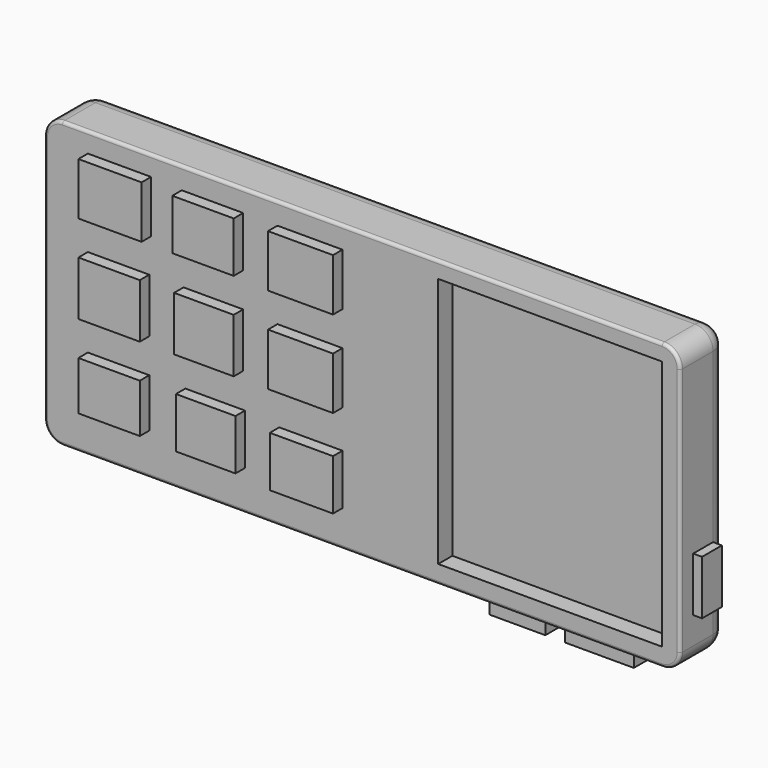
from build123d import *

# Parameters (mm, degrees)
F0_W      = 107.4943505228
F0_H      = 48.250304535
F1_DEPTH  = 10
F2_W      = 37.8673281521
F2_H      = 42.4480531365
F3_DEPTH  = 3
F4_W      = 10.9937405214
F4_H      = 8.8560692966
F5_DEPTH  = 2
F6_W      = 10.9937405214
F6_H      = 8.8560692966
F7_DEPTH  = 2
F8_W      = 10.6883589178
F8_H      = 8.5506872274
F9_DEPTH  = 2
F10_W     = 10.382976383
F10_H     = 8.5506876931
F11_DEPTH = 2
F12_W     = 10.0775957108
F12_H     = 9.1614499688
F13_DEPTH = 2
F14_W     = 10.0775957108
F14_H     = 8.5506867617
F15_DEPTH = 2
F16_W     = 10.6883570552
F16_H     = 8.8560683653
F17_DEPTH = 2
F18_W     = 10.382976383
F18_H     = 9.1614499688
F19_DEPTH = 2
F20_W     = 10.382976383
F20_H     = 8.2453051582
F21_DEPTH = 2
F22_R     = 3.048
F23_R     = 3.048
F24_R     = 3.048
F25_R     = 3.048
F26_R     = 3.048
F27_R     = 0.508
F28_W     = 6.444
F28_H     = 12.8260310739
F29_DEPTH = 7
F30_W     = 11.6044990718
F30_H     = 3.461962243
F31_DEPTH = 2
F32_W     = 9.4668287784
F32_H     = 3.461962243
F33_DEPTH = 2
F34_W     = 4.2035634727
F34_H     = 9.1614509001
F35_DEPTH = 1.5


with BuildPart() as f1:
    # F0 (on Front) → F1 (new body)
    with BuildSketch(Plane.XZ):
        with Locations((3.3591967076, 3.0538169667)):
            Rectangle(F0_W, F0_H)
    extrude(amount=-F1_DEPTH)

    # F2 (on face) → F3 (cut)
    with BuildSketch(Plane.XZ):
        with Locations((35.1188937202, 3.2065073028)):
            Rectangle(F2_W, F2_H)
    extrude(amount=-F3_DEPTH, mode=Mode.SUBTRACT)

    # F4 (on face) → F5 (join)
    with BuildSketch(Plane.XZ):
        with Locations((-5.4968702607, 19.0863553435)):
            Rectangle(F4_W, F4_H)
    extrude(amount=F5_DEPTH)

    # F6 (on face) → F7 (join)
    with BuildSketch(Plane.XZ):
        with Locations((-5.4968702607, 4.4280346483)):
            Rectangle(F6_W, F6_H)
    extrude(amount=F7_DEPTH)

    # F8 (on face) → F9 (join)
    with BuildSketch(Plane.XZ):
        with Locations((-5.3441794589, -10.688358685)):
            Rectangle(F8_W, F8_H)
    extrude(amount=F9_DEPTH)

    # F10 (on face) → F11 (join)
    with BuildSketch(Plane.XZ):
        with Locations((-21.9874810427, 19.2390461452)):
            Rectangle(F10_W, F10_H)
    extrude(amount=F11_DEPTH)

    # F12 (on face) → F13 (join)
    with BuildSketch(Plane.XZ):
        with Locations((-21.8347907066, 4.5807249844)):
            Rectangle(F12_W, F12_H)
    extrude(amount=F13_DEPTH)

    # F14 (on face) → F15 (join)
    with BuildSketch(Plane.XZ):
        with Locations((-21.5294081718, -10.0775957108)):
            Rectangle(F14_W, F14_H)
    extrude(amount=F15_DEPTH)

    # F16 (on face) → F17 (join)
    with BuildSketch(Plane.XZ):
        with Locations((-37.714637816, 19.3917364813)):
            Rectangle(F16_W, F16_H)
    extrude(amount=F17_DEPTH)

    # F18 (on face) → F19 (join)
    with BuildSketch(Plane.XZ):
        with Locations((-37.8673281521, 4.5807249844)):
            Rectangle(F18_W, F18_H)
    extrude(amount=F19_DEPTH)

    # F20 (on face) → F21 (join)
    with BuildSketch(Plane.XZ):
        with Locations((-37.8673281521, -9.924904909)):
            Rectangle(F20_W, F20_H)
    extrude(amount=F21_DEPTH)

    # F22
    f22_edges = [f1.edges().sort_by_distance(p)[0] for p in [
        (-50.387979, 5, -21.071335),
    ]]
    fillet(f22_edges, radius=F22_R)

    # F23
    f23_edges = [f1.edges().sort_by_distance(p)[0] for p in [
        (57.106372, 5, -21.071335),
    ]]
    fillet(f23_edges, radius=F23_R)

    # F24
    f24_edges = [f1.edges().sort_by_distance(p)[0] for p in [
        (57.106372, 5, 27.178969),
    ]]
    fillet(f24_edges, radius=F24_R)

    # F25
    f25_edges = [f1.edges().sort_by_distance(p)[0] for p in [
        (-50.387979, 5, 27.178969),
    ]]
    fillet(f25_edges, radius=F25_R)

    # F26
    f26_edges = [f1.edges().sort_by_distance(p)[0] for p in [
        (3.359197, 10, 27.178969),
    ]]
    fillet(f26_edges, radius=F26_R)

    # F27
    f27_edges = [f1.edges().sort_by_distance(p)[0] for p in [
        (3.359197, 0, 27.178969),
    ]]
    fillet(f27_edges, radius=F27_R)

    # F28 (on face) → F29 (cut)
    with BuildSketch(Plane(origin=(-50.3879785538, 0, 0), x_dir=(0, -1, 0), z_dir=(-1, 0, 0))):
        with Locations((-3.73, 3.0538169667)):
            Rectangle(F28_W, F28_H)
    extrude(amount=-F29_DEPTH, mode=Mode.SUBTRACT)

    # F30 (on face) → F31 (join)
    with BuildSketch(Plane(origin=(0, 0, -21.0713353008), x_dir=(1, 0, 0), z_dir=(0, 0, -1))):
        with Locations((43.0588182062, -2.2389811215)):
            Rectangle(F30_W, F30_H)
    extrude(amount=F31_DEPTH)

    # F32 (on face) → F33 (join)
    with BuildSketch(Plane(origin=(0, 0, -21.0713353008), x_dir=(1, 0, 0), z_dir=(0, 0, -1))):
        with Locations((29.1639482602, -2.2389811215)):
            Rectangle(F32_W, F32_H)
    extrude(amount=F33_DEPTH)

    # F34 (on face) → F35 (join)
    with BuildSketch(Plane.YZ.offset(57.106371969)):
        with Locations((4.8502182637, -8.8560688309)):
            Rectangle(F34_W, F34_H)
    extrude(amount=F35_DEPTH)


solid = f1.part
